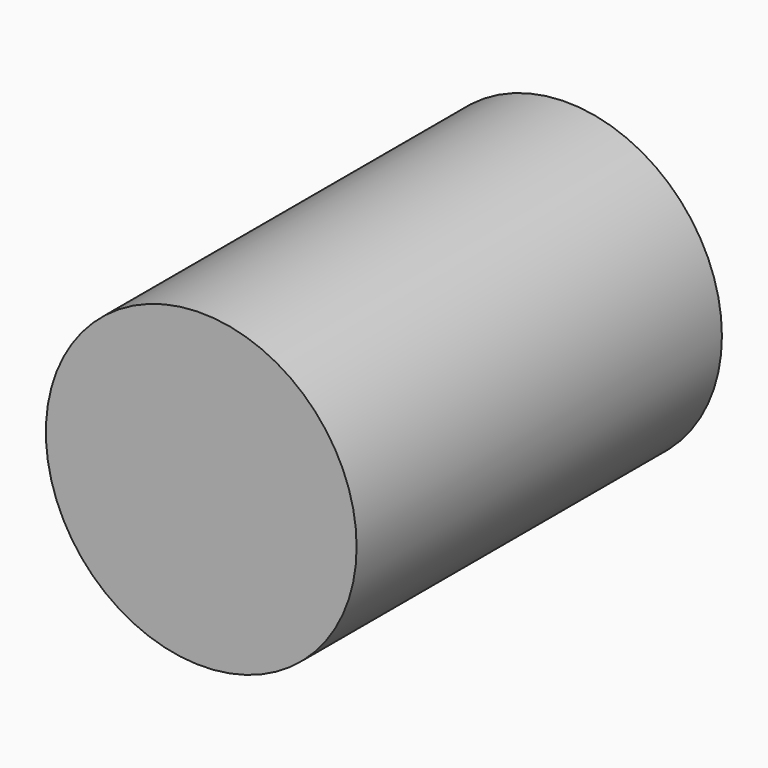
from build123d import *

# Parameters (mm, degrees)
F0_W      = 23.876
F0_H      = 22.352
F1_DEPTH  = 31.75
F2_R      = 0.796109
F3_DEPTH  = 25.4
F5_R      = 0.835635
F6_DEPTH  = 6.35
F7_R      = 0.804369
F4_W      = 23.876
F4_H      = 22.352
F4_R      = 0.796109
F8_DEPTH  = 6.35
F9_R      = 43.215518
F10_DEPTH = 127


with BuildPart() as f1:
    # F0 (on Top) → F1 (new body)
    with BuildSketch(Plane.XY):
        with Locations((11.938, -11.176)):
            Rectangle(F0_W, F0_H)
    extrude(amount=F1_DEPTH)

    # F2 (on face) → F3 (cut)
    with BuildSketch(Plane.XY.offset(31.75)):
        with Locations((22.537371, -1.488913)):
            Circle(F2_R)
    extrude(amount=-F3_DEPTH, mode=Mode.SUBTRACT)

    # F5 (on face) → F6 (cut)
    with BuildSketch(Plane.XY.offset(31.75)):
        with Locations((1.065723, -1.193718)):
            Circle(F5_R)
    extrude(amount=-F6_DEPTH, mode=Mode.SUBTRACT)

    # F7 (on face) + F4 (on face) → F8 (cut)
    with BuildSketch(Plane.XY.offset(31.75)):
        with Locations((1.000239, -21.275662)):
            Circle(F7_R)
    with BuildSketch(Plane.XY.offset(31.75)):
        with Locations((11.938, -11.176)):
            Rectangle(F4_W, F4_H)
        with Locations((22.537371, -1.488913)):
            Circle(F4_R, mode=Mode.SUBTRACT)
    extrude(amount=-F8_DEPTH, mode=Mode.SUBTRACT)

    # F9 (on Front) → F10 (join)
    with BuildSketch(Plane.XZ):
        with Locations((32.045215, 28.994571)):
            Circle(F9_R)
    extrude(amount=F10_DEPTH)


solid = f1.part
